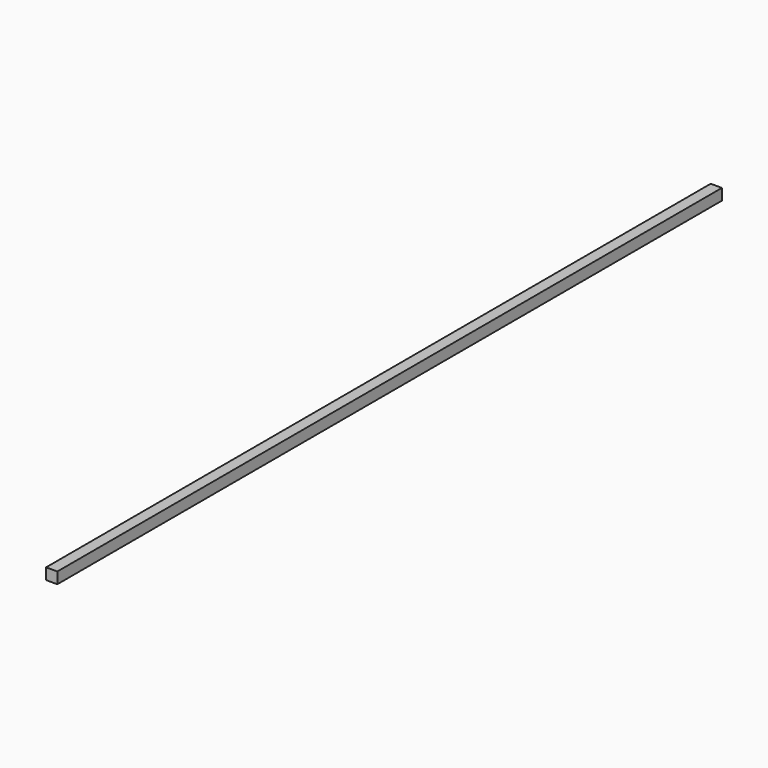
from build123d import *

# Parameters (mm, degrees)
F0_W     = 41.275
F0_H     = 41.275
F1_DEPTH = 609.6
F2_DEPTH = 1016
F3_DEPTH = 3048


with BuildPart() as f1:
    # F0 (on Front) → F1 (new body)
    with BuildSketch(Plane.XZ):
        Rectangle(F0_W, F0_H)
    extrude(amount=F1_DEPTH)


with BuildPart() as f2:
    # F0 (on Front) → F2 (new body)
    with BuildSketch(Plane.XZ):
        Rectangle(F0_W, F0_H)
    extrude(amount=F2_DEPTH)


with BuildPart() as f3:
    # F0 (on Front) → F3 (new body)
    with BuildSketch(Plane.XZ):
        Rectangle(F0_W, F0_H)
    extrude(amount=F3_DEPTH)


solid = Compound([f1.part, f2.part, f3.part])
